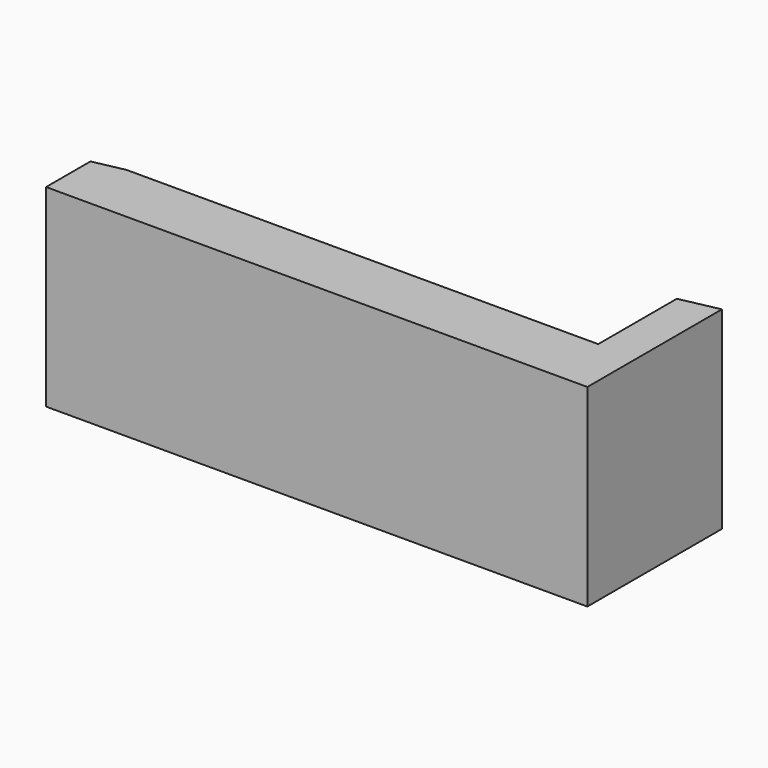
from build123d import *

# Parameters (mm, degrees)
F1_DEPTH  = 15
F3_DEPTH  = 10
F3_FACE_W = 90
F3_FACE_H = 25
F4_DEPTH  = 3
F6_DEPTH  = 25


with BuildPart() as f1:
    # F0 (on Top) → F1 (new body)
    with BuildSketch(Plane.XY):
        Polygon((60, 12.5), (0, 0), (60, 0), align=None)
        Polygon((60, 12.5), (60, 0), (90, 0), (90, 18.75), align=None)
    extrude(amount=F1_DEPTH)

    # F2 (on face) → F3 (join)
    with BuildSketch(Plane.XY.offset(15)):
        Polygon((0, 0), (90, 0), (90, 18.75), (85.000001, 17.708334), (85.000001, 5), (24, 5), align=None)
    extrude(amount=F3_DEPTH)

    # F3_face (on face) → F4 (join)
    with BuildSketch(Plane(origin=(45, 0, 12.5), x_dir=(1, 0, 0), z_dir=(0, -1, 0))):
        Rectangle(F3_FACE_W, F3_FACE_H)
    extrude(amount=F4_DEPTH)

    # F5 (on face) → F6 (cut, through all)
    with BuildSketch(Plane.XY.offset(25)):
        Polygon((0, -3), (20, -3), (20, 4.166667), (0, 0), align=None)
    extrude(amount=-F6_DEPTH, mode=Mode.SUBTRACT)


solid = f1.part
